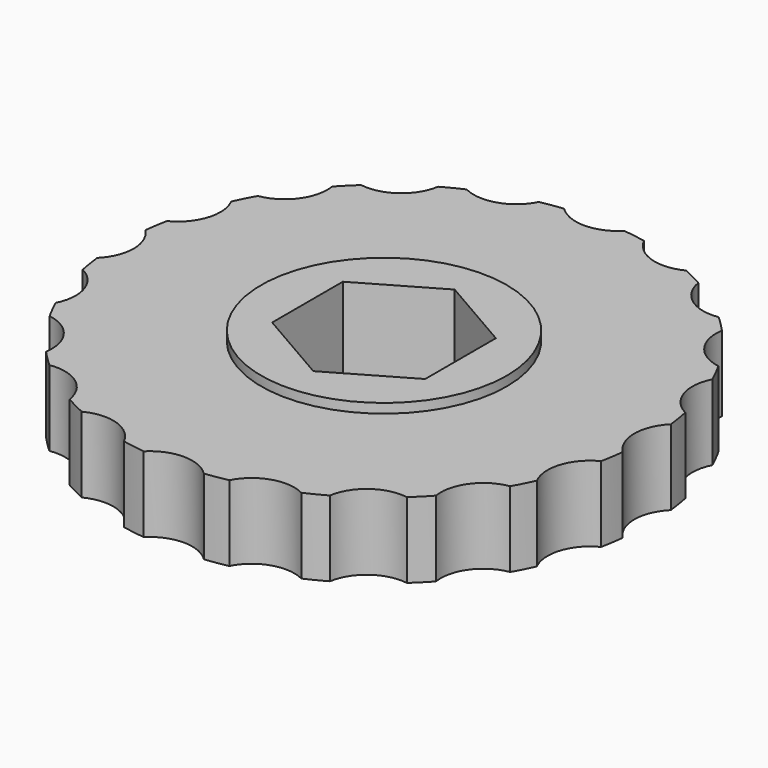
from build123d import *

# Parameters (mm, degrees)
F0_R     = 6.5
F1_DEPTH = 4
F2_DEPTH = 4.5


with BuildPart() as f1:
    # F0 (on Top) → F1 (new body)
    with BuildSketch(Plane.XY):
        with BuildLine():
            ThreePointArc((13.909274, -1.591255), (13.25, 0), (13.909274, 1.591255))
            ThreePointArc((13.909274, 1.591255), (13.827637, 2.190083), (13.720231, 2.784829))
            ThreePointArc((13.720231, 2.784829), (12.601499, 4.094475), (12.736781, 5.811575))
            ThreePointArc((12.736781, 5.811575), (12.474091, 6.355867), (12.188155, 6.888314))
            ThreePointArc((12.188155, 6.888314), (10.719475, 7.788155), (10.317523, 9.463018))
            ThreePointArc((10.317523, 9.463018), (9.899495, 9.899495), (9.463018, 10.317523))
            ThreePointArc((9.463018, 10.317523), (7.788155, 10.719475), (6.888314, 12.188155))
            ThreePointArc((6.888314, 12.188155), (6.355867, 12.474091), (5.811575, 12.736781))
            ThreePointArc((5.811575, 12.736781), (4.094475, 12.601499), (2.784829, 13.720231))
            ThreePointArc((2.784829, 13.720231), (2.190083, 13.827637), (1.591255, 13.909274))
            ThreePointArc((1.591255, 13.909274), (0, 13.25), (-1.591255, 13.909274))
            ThreePointArc((-1.591255, 13.909274), (-2.190083, 13.827637), (-2.784829, 13.720231))
            ThreePointArc((-2.784829, 13.720231), (-4.094475, 12.601499), (-5.811575, 12.736781))
            ThreePointArc((-5.811575, 12.736781), (-6.355867, 12.474091), (-6.888314, 12.188155))
            ThreePointArc((-6.888314, 12.188155), (-7.788155, 10.719475), (-9.463018, 10.317523))
            ThreePointArc((-9.463018, 10.317523), (-9.899495, 9.899495), (-10.317523, 9.463018))
            ThreePointArc((-10.317523, 9.463018), (-10.296714, 9.287391), (-10.289763, 9.110671))
            ThreePointArc((-10.289763, 9.110671), (-10.828971, 7.649271), (-12.188155, 6.888314))
            ThreePointArc((-12.188155, 6.888314), (-12.474091, 6.355867), (-12.736781, 5.811575))
            ThreePointArc((-12.736781, 5.811575), (-12.553587, 5.315197), (-12.491376, 4.789763))
            ThreePointArc((-12.491376, 4.789763), (-12.823033, 3.613982), (-13.720231, 2.784829))
            ThreePointArc((-13.720231, 2.784829), (-13.827637, 2.190083), (-13.909274, 1.591255))
            ThreePointArc((-13.909274, 1.591255), (-13.421343, 0.86121), (-13.25, 0))
            ThreePointArc((-13.25, 0), (-13.421343, -0.86121), (-13.909274, -1.591255))
            ThreePointArc((-13.909274, -1.591255), (-13.827637, -2.190083), (-13.720231, -2.784829))
            ThreePointArc((-13.720231, -2.784829), (-12.823033, -3.613982), (-12.491376, -4.789763))
            ThreePointArc((-12.491376, -4.789763), (-12.553587, -5.315197), (-12.736781, -5.811575))
            ThreePointArc((-12.736781, -5.811575), (-12.474091, -6.355867), (-12.188155, -6.888314))
            ThreePointArc((-12.188155, -6.888314), (-10.828971, -7.649271), (-10.289763, -9.110671))
            ThreePointArc((-10.289763, -9.110671), (-10.296714, -9.287391), (-10.317523, -9.463018))
            ThreePointArc((-10.317523, -9.463018), (-9.899495, -9.899495), (-9.463018, -10.317523))
            ThreePointArc((-9.463018, -10.317523), (-7.788155, -10.719475), (-6.888314, -12.188155))
            ThreePointArc((-6.888314, -12.188155), (-6.355867, -12.474091), (-5.811575, -12.736781))
            ThreePointArc((-5.811575, -12.736781), (-4.094475, -12.601499), (-2.784829, -13.720231))
            ThreePointArc((-2.784829, -13.720231), (-2.190083, -13.827637), (-1.591255, -13.909274))
            ThreePointArc((-1.591255, -13.909274), (0, -13.25), (1.591255, -13.909274))
            ThreePointArc((1.591255, -13.909274), (2.190083, -13.827637), (2.784829, -13.720231))
            ThreePointArc((2.784829, -13.720231), (4.094475, -12.601499), (5.811575, -12.736781))
            ThreePointArc((5.811575, -12.736781), (6.355867, -12.474091), (6.888314, -12.188155))
            ThreePointArc((6.888314, -12.188155), (7.788155, -10.719475), (9.463018, -10.317523))
            ThreePointArc((9.463018, -10.317523), (9.899495, -9.899495), (10.317523, -9.463018))
            ThreePointArc((10.317523, -9.463018), (10.719475, -7.788155), (12.188155, -6.888314))
            ThreePointArc((12.188155, -6.888314), (12.474091, -6.355867), (12.736781, -5.811575))
            ThreePointArc((12.736781, -5.811575), (12.601499, -4.094475), (13.720231, -2.784829))
            ThreePointArc((13.720231, -2.784829), (13.827637, -2.190083), (13.909274, -1.591255))
        make_face()
        Circle(F0_R, mode=Mode.SUBTRACT)
    extrude(amount=F1_DEPTH)

    # F0 (on Top) → F2 (join)
    with BuildSketch(Plane.XY):
        Circle(F0_R)
        Polygon((4.05, 2.338269), (4.05, -2.338269), (0, -4.676537), (-4.05, -2.338269), (-4.05, 2.338269), (0, 4.676537), align=None, mode=Mode.SUBTRACT)
    extrude(amount=F2_DEPTH)


solid = f1.part
